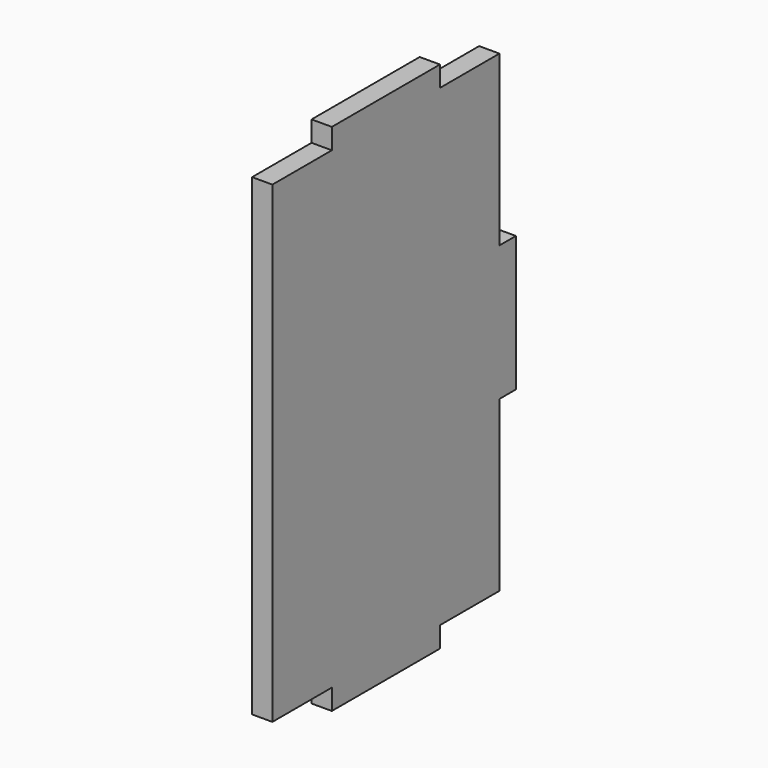
from build123d import *

# Parameters (mm, degrees)
F0_W     = 20
F0_H     = 3.05
F0_W_2   = 3.05
F0_H_2   = 20
F1_DEPTH = 3


with BuildPart() as f1:
    # F0 (on Right) → F1 (new body)
    with BuildSketch(Plane.YZ):
        Polygon((10, -35), (21, -35), (21, -10), (21, 10), (21, 35), (10, 35), (-10, 35), (-21, 35), (-21, -35), (-10, -35), align=None)
        with Locations((0, -36.525)):
            Rectangle(F0_W, F0_H)
        with Locations((22.525, 0)):
            Rectangle(F0_W_2, F0_H_2)
        with Locations((0, 36.525)):
            Rectangle(F0_W, F0_H)
    extrude(amount=F1_DEPTH)


solid = f1.part
